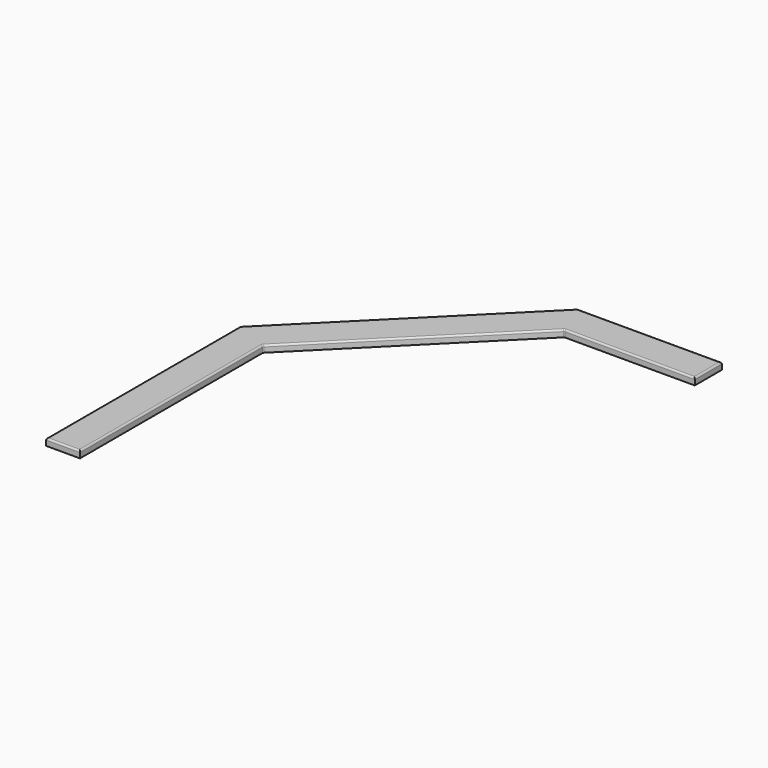
from build123d import *

# Parameters (mm, degrees)
F1_DEPTH = 50.8
F2_R     = 12.7


with BuildPart() as f1:
    # F0 (on Top) → F1 (new body)
    with BuildSketch(Plane.XY):
        Polygon((-1202.077906, -1381.683028), (52.605122, -127), (1028.7, -127), (1028.7, 127), (0, 127), (-52.605122, 127), (-1456.077906, -1276.472783), (-1456.077906, -1329.077906), (-1456.077906, -3094.377906), (-1202.077906, -3094.377906), align=None)
    extrude(amount=F1_DEPTH)

    # F2
    f2_edges = [f1.edges().sort_by_distance(p)[0] for p in [
        (-574.736392, -754.341514, 50.8),
        (540.652561, -127, 50.8),
        (1028.7, 0, 50.8),
        (488.047439, 127, 50.8),
        (-754.341514, -574.736392, 50.8),
        (-1456.077906, -2185.425345, 50.8),
        (-1329.077906, -3094.377906, 50.8),
        (-1202.077906, -2238.030467, 50.8),
        (-1456.077906, -1276.472783, 25.4),
        (-52.605122, 127, 25.4),
        (52.605122, -127, 25.4),
        (-1202.077906, -1381.683028, 25.4),
    ]]
    fillet(f2_edges, radius=F2_R)


with BuildPart() as f1_1:
    # F3: moved
    add(f1.part.moved(Location((-63.5, 0, -203.2))))


solid = f1_1.part
